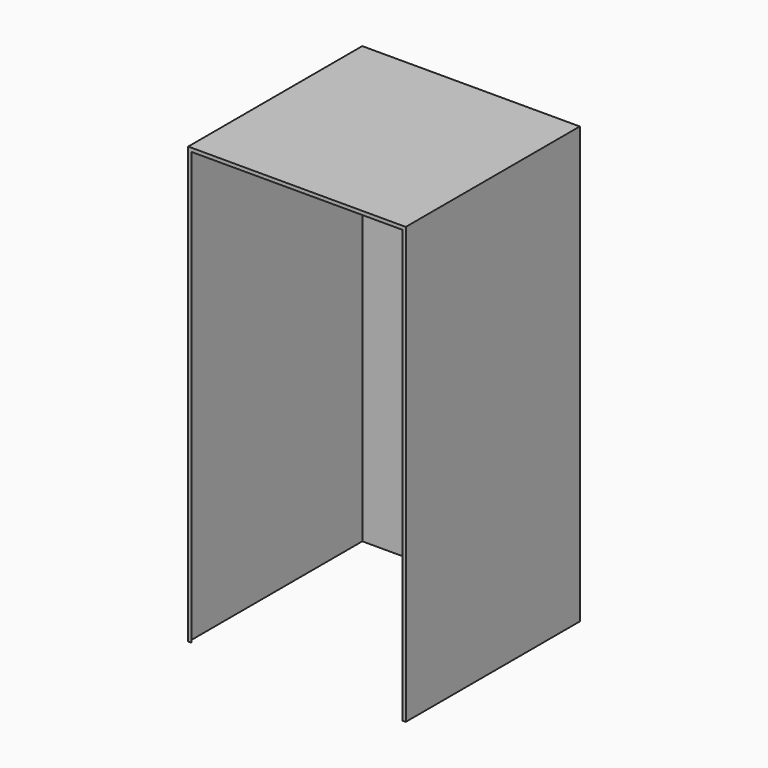
from build123d import *

# Parameters (mm, degrees)
F0_W     = 1516.7
F0_H     = 1516.7
F0_W_2   = 1512.7
F0_H_2   = 1512.7
F2_DEPTH = 3012.7
F5_W     = 1470.6
F5_H     = 2
F6_DEPTH = 3014.7
F8_W     = 1516.7
F8_H     = 1516.7
F9_DEPTH = 25.4


with BuildPart() as f2:
    # F0 (on Top) → F2 (new body)
    with BuildSketch(Plane.XY):
        Rectangle(F0_W, F0_H)
        Rectangle(F0_W_2, F0_H_2, mode=Mode.SUBTRACT)
    extrude(amount=F2_DEPTH)


with BuildPart() as f6:
    # F5 (on Top) → F6 (new body)
    with BuildSketch(Plane.XY):
        with Locations((0, -757.35)):
            Rectangle(F5_W, F5_H)
    extrude(amount=F6_DEPTH)


with BuildPart() as f2_1:
    add(f2.part)

    # F7: cut F6
    add(f6.part, mode=Mode.SUBTRACT)

    # F8 (on offset) → F9 (join)
    with BuildSketch(Plane.XY.offset(3012.7)):
        Rectangle(F8_W, F8_H)
    extrude(amount=F9_DEPTH)


solid = f2_1.part
